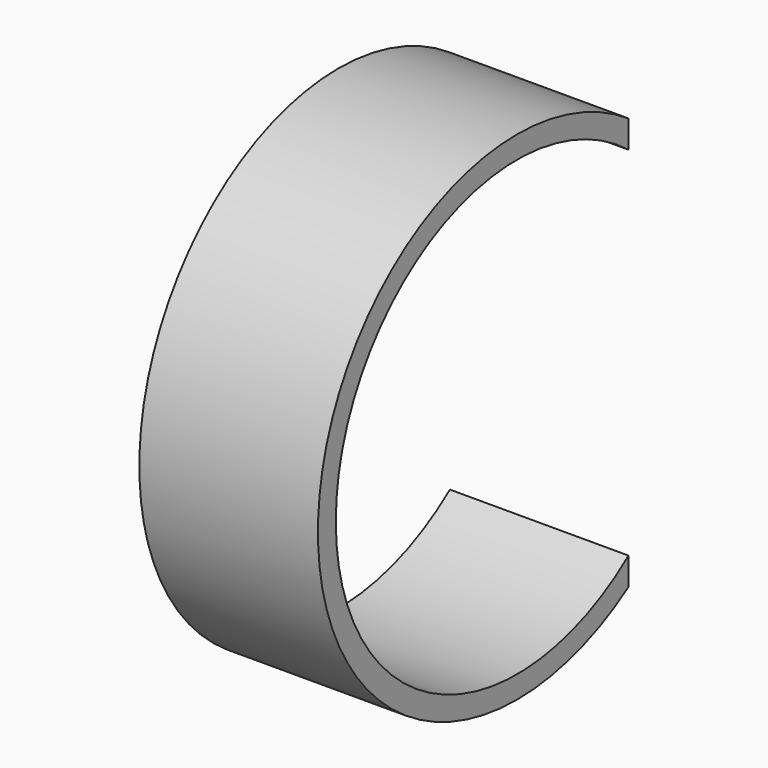
from build123d import *

# Parameters (mm, degrees)
F1_DEPTH = 4.233333


with BuildPart() as f1:
    # F0 (on Right) → F1 (new body)
    with BuildSketch(Plane.YZ):
        with BuildLine():
            ThreePointArc((0, -4.233333), (-8.670828, 0), (0, 4.233333))
            Line((0, 4.233333), (0, 4.887038))
            ThreePointArc((0, 4.887038), (-9.199995, 0), (0, -4.887038))
            Line((0, -4.887038), (0, -4.233333))
        make_face()
    extrude(amount=F1_DEPTH)


solid = f1.part
